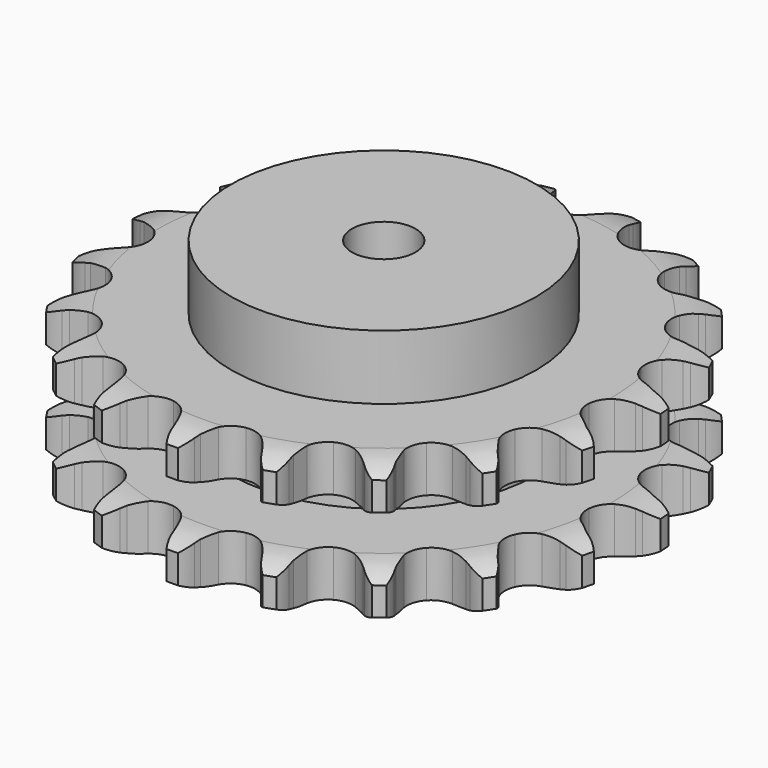
from build123d import *

# Parameters (mm, degrees)
PAD_DEPTH         = 54.6
SKETCH001_R       = 60
PAD001_DEPTH      = 80
SKETCH002_R       = 12.5
POCKET_DEPTH      = 0.001
POCKET_DEPTH_BACK = 80.001


with BuildPart() as part:
    # Sprocket → Pad (new body)
    with BuildSketch(Plane.XY):
        with BuildLine():
            ThreePointArc((-17.554092, 105.195908), (-14.164019, 102.145754), (-11.787356, 98.253774))
            Line((-11.787356, 98.253774), (-10.873954, 96.112878))
            ThreePointArc((-10.873954, 96.112878), (-9.399706, 93.203004), (-7.55702, 90.511298))
            ThreePointArc((-7.55702, 90.511298), (-4.201158, 87.80524), (0, 86.838374))
            ThreePointArc((0, 86.838374), (4.201158, 87.80524), (7.55702, 90.511298))
            ThreePointArc((7.55702, 90.511298), (9.399706, 93.203004), (10.873954, 96.112878))
            Line((10.873954, 96.112878), (11.787356, 98.253774))
            ThreePointArc((11.787356, 98.253774), (14.164019, 102.145754), (17.554092, 105.195908))
            ThreePointArc((17.554092, 105.195908), (19.770098, 101.210264), (20.754264, 96.757462))
            Line((20.754264, 96.757462), (20.923028, 94.435984))
            ThreePointArc((20.923028, 94.435984), (21.372562, 91.205088), (22.241411, 88.060907))
            ThreePointArc((22.241411, 88.060907), (24.536787, 84.411824), (28.196374, 82.133232))
            ThreePointArc((28.196374, 82.133232), (32.483843, 81.683596), (36.53653, 83.153386))
            Line((36.53653, 83.153386), (41.492573, 87.37445))
            ThreePointArc((41.492573, 87.37445), (42.251857, 88.256871), (43.051632, 89.102765))
            ThreePointArc((43.051632, 89.102765), (46.563246, 92.012165), (50.760019, 93.796299))
            ThreePointArc((50.760019, 93.796299), (51.561819, 89.307073), (51.046837, 84.775977))
            Line((51.046837, 84.775977), (50.452674, 82.525486))
            ThreePointArc((50.452674, 82.525486), (49.828781, 79.323685), (49.629639, 76.06775))
            ThreePointArc((49.629639, 76.06775), (50.615791, 71.871077), (53.337234, 68.527679))
            ThreePointArc((53.337234, 68.527679), (57.246399, 66.710267), (61.556741, 66.784514))
            Line((61.556741, 66.784514), (67.614829, 69.167645))
            ThreePointArc((67.614829, 69.167645), (68.619494, 69.755715), (69.650597, 70.29609))
            ThreePointArc((69.650597, 70.29609), (73.916622, 71.907631), (78.465309, 72.232406))
            ThreePointArc((78.465309, 72.232406), (77.766016, 67.726074), (75.807693, 63.6077))
            Line((75.807693, 63.6077), (74.514991, 61.672071))
            ThreePointArc((74.514991, 61.672071), (72.885279, 58.84633), (71.639727, 55.831472))
            ThreePointArc((71.639727, 55.831472), (71.209788, 51.541983), (72.698176, 47.496089))
            ThreePointArc((72.698176, 47.496089), (75.805419, 44.507845), (79.906323, 43.178504))
            Line((79.906323, 43.178504), (86.409969, 43.465452))
            ThreePointArc((86.409969, 43.465452), (87.551144, 43.695445), (88.701838, 43.871742))
            ThreePointArc((88.701838, 43.871742), (93.259985, 44.01079), (97.667666, 42.84101))
            ThreePointArc((97.667666, 42.84101), (95.543059, 38.805904), (92.35361, 35.546541))
            Line((92.35361, 35.546541), (90.502452, 34.13553))
            ThreePointArc((90.502452, 34.13553), (88.043525, 31.992063), (85.886538, 29.544987))
            ThreePointArc((85.886538, 29.544987), (84.0871, 25.627516), (84.181143, 21.317561))
            ThreePointArc((84.181143, 21.317561), (86.149746, 17.482308), (89.596815, 14.893433))
            Line((89.596815, 14.893433), (95.841247, 13.053103))
            ThreePointArc((95.841247, 13.053103), (96.995269, 12.900095), (98.140859, 12.69321))
            ThreePointArc((98.140859, 12.69321), (102.497182, 11.344696), (106.286216, 8.807127))
            ThreePointArc((106.286216, 8.807127), (102.966529, 5.680513), (98.89158, 3.633363))
            Line((98.89158, 3.633363), (96.682568, 2.899875))
            ThreePointArc((96.682568, 2.899875), (93.66089, 1.670958), (90.82621, 0.056845))
            ThreePointArc((90.82621, 0.056845), (87.85227, -3.06409), (86.541777, -7.171056))
            ThreePointArc((86.541777, -7.171056), (87.158412, -11.437708), (89.578103, -15.005573))
            Line((89.578103, -15.005573), (94.88664, -18.773752))
            ThreePointArc((94.88664, -18.773752), (95.928452, -19.29318), (96.944795, -19.860828))
            ThreePointArc((96.944795, -19.860828), (100.627219, -22.550771), (103.387005, -26.181145))
            ThreePointArc((103.387005, -26.181145), (99.231978, -28.060451), (94.713112, -28.673546))
            Line((94.713112, -28.673546), (92.385628, -28.650027))
            ThreePointArc((92.385628, -28.650027), (89.128644, -28.83122), (85.923453, -29.437457))
            ThreePointArc((85.923453, -29.437457), (82.097283, -31.423655), (79.524267, -34.882578))
            ThreePointArc((79.524267, -34.882578), (78.722111, -39.118272), (79.852212, -43.278492))
            Line((79.852212, -43.278492), (83.649593, -48.56618))
            ThreePointArc((83.649593, -48.56618), (84.466299, -49.39574), (85.243259, -50.262637))
            ThreePointArc((85.243259, -50.262637), (87.852735, -54.002513), (89.284208, -58.332284))
            ThreePointArc((89.284208, -58.332284), (84.744102, -58.760629), (80.271009, -57.873231))
            Line((80.271009, -57.873231), (78.077271, -57.095253))
            ThreePointArc((78.077271, -57.095253), (74.937926, -56.209088), (71.709557, -55.741754))
            ThreePointArc((71.709557, -55.741754), (67.445782, -56.377978), (63.889068, -58.814031))
            ThreePointArc((63.889068, -58.814031), (61.755048, -62.559764), (61.473096, -66.861515))
            Line((61.473096, -66.861515), (63.347814, -73.095709))
            ThreePointArc((63.347814, -73.095709), (63.850911, -74.145505), (64.304292, -75.21771))
            ThreePointArc((64.304292, -75.21771), (65.558044, -79.602244), (65.506081, -84.162215))
            ThreePointArc((65.506081, -84.162215), (61.072888, -83.093181), (57.130297, -80.801454))
            Line((57.130297, -80.801454), (55.308031, -79.353324))
            ThreePointArc((55.308031, -79.353324), (52.626522, -77.49583), (49.724817, -76.005567))
            ThreePointArc((49.724817, -76.005567), (45.485483, -75.222874), (41.330498, -76.372071))
            ThreePointArc((41.330498, -76.372071), (38.095867, -79.221934), (36.432416, -83.199055))
            Line((36.432416, -83.199055), (36.181317, -89.704183))
            ThreePointArc((36.181317, -89.704183), (36.316286, -90.860454), (36.396958, -92.021776))
            ThreePointArc((36.396958, -92.021776), (36.159122, -96.575837), (34.629355, -100.871864))
            ThreePointArc((34.629355, -100.871864), (30.783479, -98.421298), (27.798631, -94.973586))
            Line((27.798631, -94.973586), (26.545307, -93.01223))
            ThreePointArc((26.545307, -93.01223), (24.612217, -90.384696), (22.351622, -88.032997))
            ThreePointArc((22.351622, -88.032997), (18.596127, -85.916203), (14.293127, -85.654012))
            ThreePointArc((14.293127, -85.654012), (10.308408, -87.299179), (7.443718, -90.520687))
            Line((7.443718, -90.520687), (5.094013, -96.591818))
            ThreePointArc((5.094013, -96.591818), (4.846229, -97.729263), (4.545448, -98.853855))
            ThreePointArc((4.545448, -98.853855), (2.841798, -103.08394), (0, -106.650481))
            ThreePointArc((0, -106.650481), (-2.841798, -103.08394), (-4.545448, -98.853855))
            Line((-4.545448, -98.853855), (-5.094013, -96.591818))
            ThreePointArc((-5.094013, -96.591818), (-6.069204, -93.478977), (-7.443718, -90.520687))
            ThreePointArc((-7.443718, -90.520687), (-10.308408, -87.299179), (-14.293127, -85.654012))
            ThreePointArc((-14.293127, -85.654012), (-18.596127, -85.916203), (-22.351622, -88.032997))
            Line((-22.351622, -88.032997), (-26.545307, -93.01223))
            ThreePointArc((-26.545307, -93.01223), (-27.148993, -94.00759), (-27.798631, -94.973586))
            ThreePointArc((-27.798631, -94.973586), (-30.783479, -98.421298), (-34.629355, -100.871864))
            ThreePointArc((-34.629355, -100.871864), (-36.159122, -96.575837), (-36.396958, -92.021776))
            Line((-36.396958, -92.021776), (-36.181317, -89.704183))
            ThreePointArc((-36.181317, -89.704183), (-36.092932, -86.443361), (-36.432416, -83.199055))
            ThreePointArc((-36.432416, -83.199055), (-38.095867, -79.221934), (-41.330498, -76.372071))
            ThreePointArc((-41.330498, -76.372071), (-45.485483, -75.222874), (-49.724817, -76.005567))
            Line((-49.724817, -76.005567), (-55.308031, -79.353324))
            ThreePointArc((-55.308031, -79.353324), (-56.2022, -80.098735), (-57.130297, -80.801454))
            ThreePointArc((-57.130297, -80.801454), (-61.072888, -83.093181), (-65.506081, -84.162215))
            ThreePointArc((-65.506081, -84.162215), (-65.558044, -79.602244), (-64.304292, -75.21771))
            Line((-64.304292, -75.21771), (-63.347814, -73.095709))
            ThreePointArc((-63.347814, -73.095709), (-62.205431, -70.040266), (-61.473096, -66.861515))
            ThreePointArc((-61.473096, -66.861515), (-61.755048, -62.559764), (-63.889068, -58.814031))
            ThreePointArc((-63.889068, -58.814031), (-67.445782, -56.377978), (-71.709557, -55.741754))
            Line((-71.709557, -55.741754), (-78.077271, -57.095253))
            ThreePointArc((-78.077271, -57.095253), (-79.165027, -57.50994), (-80.271009, -57.873231))
            ThreePointArc((-80.271009, -57.873231), (-84.744102, -58.760629), (-89.284208, -58.332284))
            ThreePointArc((-89.284208, -58.332284), (-87.852735, -54.002513), (-85.243259, -50.262637))
            Line((-85.243259, -50.262637), (-83.649593, -48.56618))
            ThreePointArc((-83.649593, -48.56618), (-81.577006, -46.047221), (-79.852212, -43.278492))
            ThreePointArc((-79.852212, -43.278492), (-78.722111, -39.118272), (-79.524267, -34.882578))
            ThreePointArc((-79.524267, -34.882578), (-82.097283, -31.423655), (-85.923453, -29.437457))
            Line((-85.923453, -29.437457), (-92.385628, -28.650027))
            ThreePointArc((-92.385628, -28.650027), (-93.549094, -28.689051), (-94.713112, -28.673546))
            ThreePointArc((-94.713112, -28.673546), (-99.231978, -28.060451), (-103.387005, -26.181145))
            ThreePointArc((-103.387005, -26.181145), (-100.627219, -22.550771), (-96.944795, -19.860828))
            Line((-96.944795, -19.860828), (-94.88664, -18.773752))
            ThreePointArc((-94.88664, -18.773752), (-92.108447, -17.064245), (-89.578103, -15.005573))
            ThreePointArc((-89.578103, -15.005573), (-87.158412, -11.437708), (-86.541777, -7.171056))
            ThreePointArc((-86.541777, -7.171056), (-87.85227, -3.06409), (-90.82621, 0.056845))
            Line((-90.82621, 0.056845), (-96.682568, 2.899875))
            ThreePointArc((-96.682568, 2.899875), (-97.795666, 3.240742), (-98.89158, 3.633363))
            ThreePointArc((-98.89158, 3.633363), (-102.966529, 5.680513), (-106.286216, 8.807127))
            ThreePointArc((-106.286216, 8.807127), (-102.497182, 11.344696), (-98.140859, 12.69321))
            Line((-98.140859, 12.69321), (-95.841247, 13.053103))
            ThreePointArc((-95.841247, 13.053103), (-92.658508, 13.767907), (-89.596815, 14.893433))
            ThreePointArc((-89.596815, 14.893433), (-86.149746, 17.482308), (-84.181143, 21.317561))
            ThreePointArc((-84.181143, 21.317561), (-84.0871, 25.627516), (-85.886538, 29.544987))
            Line((-85.886538, 29.544987), (-90.502452, 34.13553))
            ThreePointArc((-90.502452, 34.13553), (-91.44456, 34.819351), (-92.35361, 35.546541))
            ThreePointArc((-92.35361, 35.546541), (-95.543059, 38.805904), (-97.667666, 42.84101))
            ThreePointArc((-97.667666, 42.84101), (-93.259985, 44.01079), (-88.701838, 43.871742))
            Line((-88.701838, 43.871742), (-86.409969, 43.465452))
            ThreePointArc((-86.409969, 43.465452), (-83.167583, 43.108092), (-79.906323, 43.178504))
            ThreePointArc((-79.906323, 43.178504), (-75.805419, 44.507845), (-72.698176, 47.496089))
            ThreePointArc((-72.698176, 47.496089), (-71.209788, 51.541983), (-71.639727, 55.831472))
            Line((-71.639727, 55.831472), (-74.514991, 61.672071))
            ThreePointArc((-74.514991, 61.672071), (-75.184017, 62.624742), (-75.807693, 63.6077))
            ThreePointArc((-75.807693, 63.6077), (-77.766016, 67.726074), (-78.465309, 72.232406))
            ThreePointArc((-78.465309, 72.232406), (-73.916622, 71.907631), (-69.650597, 70.29609))
            Line((-69.650597, 70.29609), (-67.614829, 69.167645))
            ThreePointArc((-67.614829, 69.167645), (-64.664159, 67.776847), (-61.556741, 66.784514))
            ThreePointArc((-61.556741, 66.784514), (-57.246399, 66.710267), (-53.337234, 68.527679))
            ThreePointArc((-53.337234, 68.527679), (-50.615791, 71.871077), (-49.629639, 76.06775))
            Line((-49.629639, 76.06775), (-50.452674, 82.525486))
            ThreePointArc((-50.452674, 82.525486), (-50.776119, 83.643771), (-51.046837, 84.775977))
            ThreePointArc((-51.046837, 84.775977), (-51.561819, 89.307073), (-50.760019, 93.796299))
            ThreePointArc((-50.760019, 93.796299), (-46.563246, 92.012165), (-43.051632, 89.102765))
            Line((-43.051632, 89.102765), (-41.492573, 87.37445))
            ThreePointArc((-41.492573, 87.37445), (-39.15337, 85.100929), (-36.53653, 83.153386))
            ThreePointArc((-36.53653, 83.153386), (-32.483843, 81.683596), (-28.196374, 82.133232))
            ThreePointArc((-28.196374, 82.133232), (-24.536787, 84.411824), (-22.241411, 88.060907))
            Line((-22.241411, 88.060907), (-20.923028, 94.435984))
            ThreePointArc((-20.923028, 94.435984), (-20.86584, 95.5987), (-20.754264, 96.757462))
            ThreePointArc((-20.754264, 96.757462), (-19.770098, 101.210264), (-17.554092, 105.195908))
        make_face()
    extrude(amount=PAD_DEPTH)

    # Sketch → Groove (revolve, cut)
    with BuildSketch(Plane.XZ):
        with BuildLine():
            ThreePointArc((89.498368, 0), (96.981683, 0.887302), (104.05, 3.5))
            Line((104.05, 3.5), (104.05, 14.7))
            ThreePointArc((104.05, 14.7), (96.981683, 17.312698), (89.498368, 18.2))
            Line((60, 18.2), (89.498368, 18.2))
            Line((60, 36.4), (60, 18.2))
            Line((89.498368, 36.4), (60, 36.4))
            ThreePointArc((89.498368, 36.4), (96.981683, 37.287302), (104.05, 39.9))
            Line((104.05, 39.9), (104.05, 51.1))
            ThreePointArc((104.05, 51.1), (96.981683, 53.712698), (89.498368, 54.6))
            Line((89.498368, 54.6), (114.05, 54.6))
            Line((114.05, 54.6), (114.05, 0))
            Line((89.498368, 0), (114.05, 0))
        make_face()
    revolve(axis=Axis((0, 0, 0), (0, 0, 1)), mode=Mode.SUBTRACT)

    # Sketch001 → Pad001 (join)
    with BuildSketch(Plane.XY):
        Circle(SKETCH001_R)
    extrude(amount=PAD001_DEPTH)

    # Sketch002 → Pocket (cut, two sides)
    with BuildSketch(Plane.XY) as pocket_sk:
        Circle(SKETCH002_R)
    extrude(amount=-POCKET_DEPTH, mode=Mode.SUBTRACT)
    extrude(pocket_sk.sketch, amount=POCKET_DEPTH_BACK, mode=Mode.SUBTRACT)


solid = part.part
